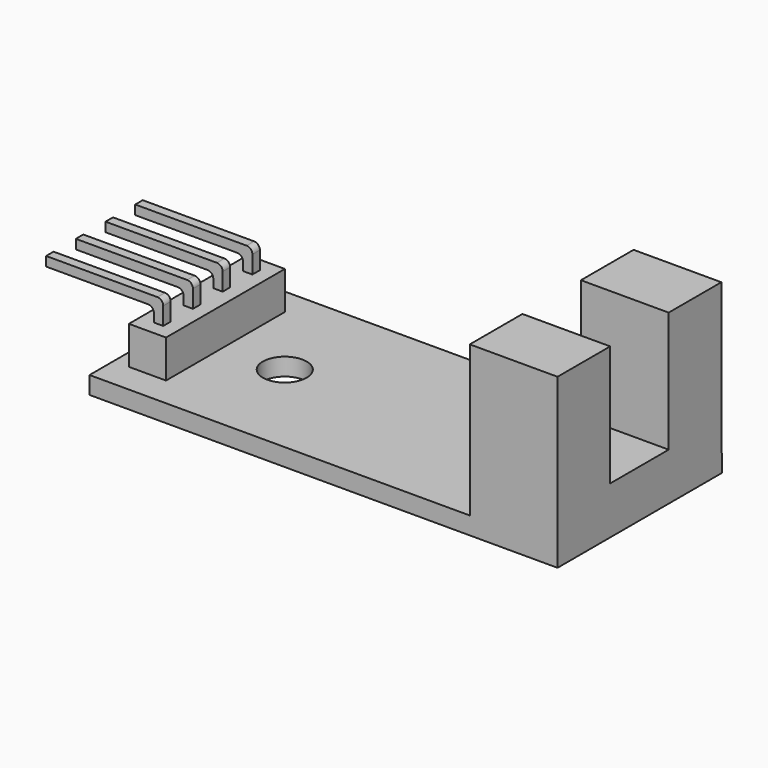
from build123d import *

# Parameters (mm, degrees)
CYLINDER_R         = 1.5
CYLINDER_DEPTH     = 10
BOX014_W           = 2.54
BOX014_H           = 10
BOX014_DEPTH       = 2.54
BOX013_W           = 2.53
BOX013_H           = 10
BOX013_DEPTH       = 2.53
BOX012_W           = 2.54
BOX012_H           = 10.16
BOX012_DEPTH       = 2.6
BOX011_W           = 0.64
BOX011_H           = 0.64
BOX011_DEPTH       = 9.9
BOX011_PITCH_ANGLE = 90
BOX010_W           = 0.64
BOX010_H           = 0.64
BOX010_DEPTH       = 9.9
BOX009_W           = 0.64
BOX009_H           = 0.64
BOX009_DEPTH       = 9.9
BOX009_PITCH_ANGLE = 90
BOX008_W           = 0.64
BOX008_H           = 0.64
BOX008_DEPTH       = 9.9
BOX007_W           = 0.64
BOX007_H           = 0.64
BOX007_DEPTH       = 9.9
BOX007_PITCH_ANGLE = 90
BOX006_W           = 0.64
BOX006_H           = 0.64
BOX006_DEPTH       = 9.9
BOX005_W           = 0.64
BOX005_H           = 0.64
BOX005_DEPTH       = 9.9
BOX005_PITCH_ANGLE = 90
BOX004_W           = 0.64
BOX004_H           = 0.64
BOX004_DEPTH       = 9.9
FILLET_R           = 0.4
FILLET001_R        = 0.4
FILLET002_R        = 0.4
FILLET003_R        = 0.4
FILLET004_R        = 0.4
FILLET005_R        = 0.4
FILLET006_R        = 0.4
FILLET007_R        = 0.4
BOX003_W           = 6
BOX003_H           = 5
BOX003_DEPTH       = 3.25
BOX002_W           = 6
BOX002_H           = 4.5
BOX002_DEPTH       = 11.5
BOX001_W           = 6
BOX001_H           = 4.5
BOX001_DEPTH       = 11.5
BOX_W              = 32
BOX_H              = 14.05
BOX_DEPTH          = 1.2


with BuildPart() as cylinder:
    # Cylinder → Cylinder (new body)
    with BuildSketch(Plane(origin=(7.75, 7, 0), x_dir=(1, 0, 0), z_dir=(0, 0, 1))):
        Circle(CYLINDER_R)
    extrude(amount=CYLINDER_DEPTH)


with BuildPart() as box014:
    # Box014 → Box014 (new body)
    with BuildSketch(Plane(origin=(-0.5, -1, 0), x_dir=(1, 0, 0), z_dir=(0, 0, 1))):
        with Locations((1.27, 5)):
            Rectangle(BOX014_W, BOX014_H)
    extrude(amount=BOX014_DEPTH)


with BuildPart() as box013:
    # Box013 → Box013 (new body)
    with BuildSketch(Plane(origin=(-9.9, -1, 8.9), x_dir=(1, 0, 0), z_dir=(0, 0, 1))):
        with Locations((1.265, 5)):
            Rectangle(BOX013_W, BOX013_H)
    extrude(amount=BOX013_DEPTH)


with BuildPart() as box012:
    # Box012 → Box012 (new body)
    with BuildSketch(Plane(origin=(-0.95, -0.95, 5.69), x_dir=(1, 0, 0), z_dir=(0, 0, 1))):
        with Locations((1.27, 5.08)):
            Rectangle(BOX012_W, BOX012_H)
    extrude(amount=BOX012_DEPTH)


with BuildPart() as box011:
    # Box011 → Box011 (new body)
    with BuildSketch(Plane.XY):
        with Locations((0.32, 0.32)):
            Rectangle(BOX011_W, BOX011_H)
    extrude(amount=BOX011_DEPTH)


with BuildPart() as box011_1:
    # Box011 pitch: moved
    add(box011.part.rotate(Axis((0, 0, 0), (0, 1, 0)), BOX011_PITCH_ANGLE))


with BuildPart() as box011_2:
    # Box011 placement: moved
    add(box011_1.part.moved(Location((-9.9, 7.62, 9.9))))


with BuildPart() as box010:
    # Box010 → Box010 (new body)
    with BuildSketch(Plane(origin=(0, 7.62, 0), x_dir=(1, 0, 0), z_dir=(0, 0, 1))):
        with Locations((0.32, 0.32)):
            Rectangle(BOX010_W, BOX010_H)
    extrude(amount=BOX010_DEPTH)


with BuildPart() as box009:
    # Box009 → Box009 (new body)
    with BuildSketch(Plane.XY):
        with Locations((0.32, 0.32)):
            Rectangle(BOX009_W, BOX009_H)
    extrude(amount=BOX009_DEPTH)


with BuildPart() as box009_1:
    # Box009 pitch: moved
    add(box009.part.rotate(Axis((0, 0, 0), (0, 1, 0)), BOX009_PITCH_ANGLE))


with BuildPart() as box009_2:
    # Box009 placement: moved
    add(box009_1.part.moved(Location((-9.9, 5.08, 9.9))))


with BuildPart() as box008:
    # Box008 → Box008 (new body)
    with BuildSketch(Plane(origin=(0, 5.08, 0), x_dir=(1, 0, 0), z_dir=(0, 0, 1))):
        with Locations((0.32, 0.32)):
            Rectangle(BOX008_W, BOX008_H)
    extrude(amount=BOX008_DEPTH)


with BuildPart() as box007:
    # Box007 → Box007 (new body)
    with BuildSketch(Plane.XY):
        with Locations((0.32, 0.32)):
            Rectangle(BOX007_W, BOX007_H)
    extrude(amount=BOX007_DEPTH)


with BuildPart() as box007_1:
    # Box007 pitch: moved
    add(box007.part.rotate(Axis((0, 0, 0), (0, 1, 0)), BOX007_PITCH_ANGLE))


with BuildPart() as box007_2:
    # Box007 placement: moved
    add(box007_1.part.moved(Location((-9.9, 2.54, 9.9))))


with BuildPart() as box006:
    # Box006 → Box006 (new body)
    with BuildSketch(Plane(origin=(0, 2.54, 0), x_dir=(1, 0, 0), z_dir=(0, 0, 1))):
        with Locations((0.32, 0.32)):
            Rectangle(BOX006_W, BOX006_H)
    extrude(amount=BOX006_DEPTH)


with BuildPart() as box005:
    # Box005 → Box005 (new body)
    with BuildSketch(Plane.XY):
        with Locations((0.32, 0.32)):
            Rectangle(BOX005_W, BOX005_H)
    extrude(amount=BOX005_DEPTH)


with BuildPart() as box005_1:
    # Box005 pitch: moved
    add(box005.part.rotate(Axis((0, 0, 0), (0, 1, 0)), BOX005_PITCH_ANGLE))


with BuildPart() as box005_2:
    # Box005 placement: moved
    add(box005_1.part.moved(Location((-9.9, 0, 9.9))))


with BuildPart() as cut001:
    # Box004 → Box004 (new body)
    with BuildSketch(Plane.XY):
        with Locations((0.32, 0.32)):
            Rectangle(BOX004_W, BOX004_H)
    extrude(amount=BOX004_DEPTH)

    # Fusion003: union Box005
    add(box005_2.part)

    # Fusion004: union Box006
    add(box006.part)

    # Fusion005: union Box007
    add(box007_2.part)

    # Fusion006: union Box008
    add(box008.part)

    # Fusion007: union Box009
    add(box009_2.part)

    # Fusion008: union Box010
    add(box010.part)

    # Fusion009: union Box011
    add(box011_2.part)

    # Fusion010: union Box012
    add(box012.part)

    # Fillet
    fillet_edges = [cut001.edges().sort_by_distance(p)[0] for p in [
        (0.64, 0.32, 9.9),
    ]]
    fillet(fillet_edges, radius=FILLET_R)

    # Fillet001
    fillet001_edges = [cut001.edges().sort_by_distance(p)[0] for p in [
        (0.64, 2.86, 9.9),
    ]]
    fillet(fillet001_edges, radius=FILLET001_R)

    # Fillet002
    fillet002_edges = [cut001.edges().sort_by_distance(p)[0] for p in [
        (0.64, 5.4, 9.9),
    ]]
    fillet(fillet002_edges, radius=FILLET002_R)

    # Fillet003
    fillet003_edges = [cut001.edges().sort_by_distance(p)[0] for p in [
        (0.64, 7.94, 9.9),
    ]]
    fillet(fillet003_edges, radius=FILLET003_R)

    # Fillet004
    fillet004_edges = [cut001.edges().sort_by_distance(p)[0] for p in [
        (0, 7.94, 9.26),
    ]]
    fillet(fillet004_edges, radius=FILLET004_R)

    # Fillet005
    fillet005_edges = [cut001.edges().sort_by_distance(p)[0] for p in [
        (0, 5.4, 9.26),
    ]]
    fillet(fillet005_edges, radius=FILLET005_R)

    # Fillet006
    fillet006_edges = [cut001.edges().sort_by_distance(p)[0] for p in [
        (0, 2.86, 9.26),
    ]]
    fillet(fillet006_edges, radius=FILLET006_R)

    # Fillet007
    fillet007_edges = [cut001.edges().sort_by_distance(p)[0] for p in [
        (0, 0.32, 9.26),
    ]]
    fillet(fillet007_edges, radius=FILLET007_R)

    # Cut: cut Box013
    add(box013.part, mode=Mode.SUBTRACT)

    # Cut001: cut Box014
    add(box014.part, mode=Mode.SUBTRACT)


with BuildPart() as cut001_1:
    # Cut001 placement: moved
    add(cut001.part.moved(Location((2, 3, -4.5))))


with BuildPart() as box003:
    # Box003 → Box003 (new body)
    with BuildSketch(Plane(origin=(26, 4.5, 0), x_dir=(1, 0, 0), z_dir=(0, 0, 1))):
        with Locations((3, 2.5)):
            Rectangle(BOX003_W, BOX003_H)
    extrude(amount=BOX003_DEPTH)


with BuildPart() as box002:
    # Box002 → Box002 (new body)
    with BuildSketch(Plane(origin=(26, 0, 0), x_dir=(1, 0, 0), z_dir=(0, 0, 1))):
        with Locations((3, 2.25)):
            Rectangle(BOX002_W, BOX002_H)
    extrude(amount=BOX002_DEPTH)


with BuildPart() as box001:
    # Box001 → Box001 (new body)
    with BuildSketch(Plane(origin=(26, 9.5, 0), x_dir=(1, 0, 0), z_dir=(0, 0, 1))):
        with Locations((3, 2.25)):
            Rectangle(BOX001_W, BOX001_H)
    extrude(amount=BOX001_DEPTH)


with BuildPart() as cut002:
    # Box → Box (new body)
    with BuildSketch(Plane.XY):
        with Locations((16, 7.025)):
            Rectangle(BOX_W, BOX_H)
    extrude(amount=BOX_DEPTH)

    # Fusion: union Box001
    add(box001.part)

    # Fusion001: union Box002
    add(box002.part)

    # Fusion002: union Box003
    add(box003.part)

    # Fusion011: union Cut001
    add(cut001_1.part)

    # Cut002: cut Cylinder
    add(cylinder.part, mode=Mode.SUBTRACT)


solid = cut002.part
